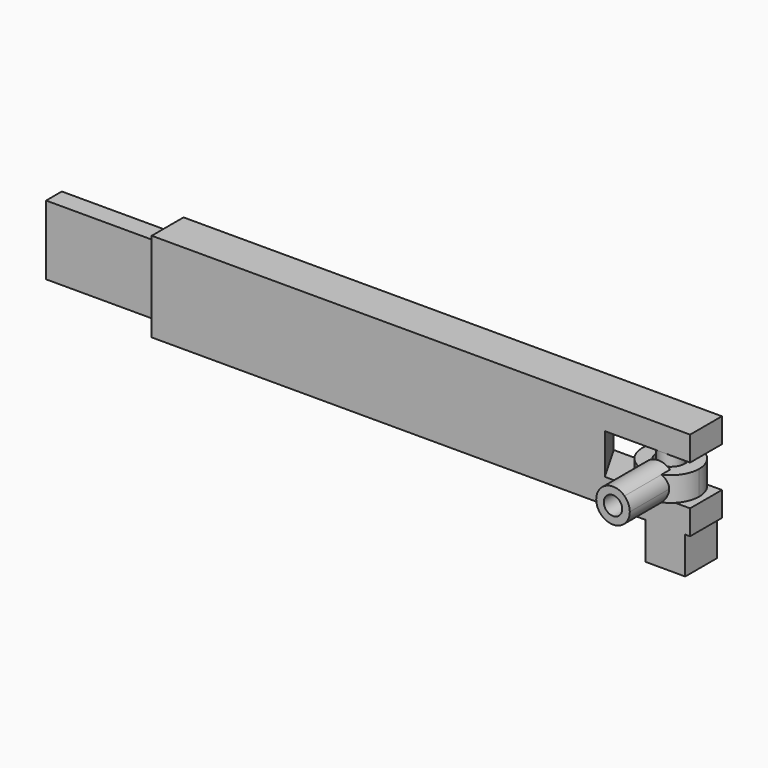
from build123d import *

# Parameters (mm, degrees)
F0_W      = 120.2900058
F0_H      = 8.89
F1_DEPTH  = 10
F2_W      = 4.39
F2_H      = 15.5
F3_DEPTH  = 25.4
F4_W      = 19.05
F4_H      = 9
F5_DEPTH  = 8.891
F6_R      = 2.54
F7_DEPTH  = 9
F9_R      = 3.175
F10_DEPTH = 5.46
F13_DEPTH = 12.7
F14_R     = 2.0625
F15_DEPTH = 10.16
F16_R     = 2.0625
F17_DEPTH = 4
F18_R     = 2.0625
F19_DEPTH = 8.267699999
F20_R     = 2.5
F20_R_2   = 2.0625
F21_DEPTH = 0.5
F23_DEPTH = 9


with BuildPart() as f1:
    # F0 (on Top) → F1 (new body, symmetric)
    with BuildSketch(Plane.XY):
        Rectangle(F0_W, F0_H)
    extrude(amount=F1_DEPTH, both=True)

    # F2 (on face) → F3 (join)
    with BuildSketch(Plane(origin=(-60.1450029, 0, 0), x_dir=(0, -1, 0), z_dir=(-1, 0, 0))):
        Rectangle(F2_W, F2_H)
    extrude(amount=F3_DEPTH)

    # F4 (on face) → F5 (cut, through all)
    with BuildSketch(Plane.XZ.offset(4.445)):
        with Locations((50.6200029, 0)):
            Rectangle(F4_W, F4_H)
    extrude(amount=-F5_DEPTH, mode=Mode.SUBTRACT)

    # F6 (on face) → F7 (join, through all)
    with BuildSketch(Plane.XY.offset(-4.5)):
        with Locations((53.7950029, -1.905)):
            Circle(F6_R)
    extrude(amount=F7_DEPTH)

    # F16 (on face) → F17 (cut)
    with BuildSketch(Plane(origin=(0, 0, -10), x_dir=(1, 0, 0), z_dir=(0, 0, -1))):
        with Locations((54.6134511488, 0)):
            Circle(F16_R)
    extrude(amount=-F17_DEPTH, mode=Mode.SUBTRACT)

    # F18 (on face) → F19 (join)
    with BuildSketch(Plane(origin=(0, 0, -10), x_dir=(1, 0, 0), z_dir=(0, 0, -1))):
        with BuildLine():
            ThreePointArc((54.6134511488, -4.445), (57.7565407912, -3.1430896424), (59.0584511488, 0))
            ThreePointArc((59.0584511488, 0), (57.7565407912, 3.1430896424), (54.6134511488, 4.445))
            ThreePointArc((54.6134511488, 4.445), (51.4703615087, 3.1430896446), (50.1684511488, 6.4e-09))
            ThreePointArc((50.1684511488, 6.4e-09), (51.4703615042, -3.1430896401), (54.6134511488, -4.445))
        make_face()
        with Locations((54.6134511488, 0)):
            Circle(F18_R, mode=Mode.SUBTRACT)
        with BuildLine():
            Line((59.0584511488, -4.445), (59.0584511488, 0))
            ThreePointArc((59.0584511488, 0), (57.7565407912, -3.1430896424), (54.6134511488, -4.445))
            Line((54.6134511488, -4.445), (59.0584511488, -4.445))
        make_face()
        with BuildLine():
            ThreePointArc((54.6134511488, 4.445), (57.7565407912, 3.1430896424), (59.0584511488, 0))
            Line((59.0584511488, 0), (59.0584511488, 4.445))
            Line((59.0584511488, 4.445), (54.6134511488, 4.445))
        make_face()
        with BuildLine():
            ThreePointArc((50.1684511488, 6.4e-09), (51.4703615087, 3.1430896446), (54.6134511488, 4.445))
            Line((54.6134511488, 4.445), (50.1684511488, 4.445))
            Line((50.1684511488, 4.445), (50.1684511488, 6.4e-09))
        make_face()
        with BuildLine():
            Line((50.1684511488, -4.445), (54.6134511488, -4.445))
            ThreePointArc((54.6134511488, -4.445), (51.4703615042, -3.1430896401), (50.1684511488, 6.4e-09))
            Line((50.1684511488, 6.4e-09), (50.1684511488, -4.445))
        make_face()
    extrude(amount=F19_DEPTH)

    # F20 (on face) → F21 (join)
    with BuildSketch(Plane(origin=(0, 0, -18.267699999), x_dir=(1, 0, 0), z_dir=(0, 0, -1))):
        with Locations((54.6134511488, 0)):
            Circle(F20_R)
        with Locations((54.6134511488, 0)):
            Circle(F20_R_2, mode=Mode.SUBTRACT)
    extrude(amount=F21_DEPTH)

    # F22 (on face) → F23 (cut)
    with BuildSketch(Plane(origin=(0, 0, 4.5), x_dir=(1, 0, 0), z_dir=(0, 0, -1))):
        Polygon((41.0950029, -4.445), (41.0950029, 4.445), (35.9623590069, -4.445), align=None)
    extrude(amount=F23_DEPTH, mode=Mode.SUBTRACT)


with BuildPart() as f10:
    # F9 (on offset) → F10 (new body)
    with BuildSketch(Plane.XY.offset(-3.23)):
        with BuildLine():
            ThreePointArc((53.7950029, 4.445), (49.3048748395, -6.3951280605), (60.1450029, -1.905))
            ThreePointArc((60.1450029, -1.905), (58.2851309605, 2.5851280605), (53.7950029, 4.445))
        make_face()
        with Locations((53.7950029, -1.905)):
            Circle(F9_R, mode=Mode.SUBTRACT)
    extrude(amount=F10_DEPTH)

    # F12 (on offset) → F13 (join)
    with BuildSketch(Plane.XZ.offset(5.334)):
        with BuildLine():
            ThreePointArc((51.2240886657, -3.23), (53.7950029, -4.25), (56.3659171343, -3.23))
            Line((56.3659171343, -3.23), (51.2240886657, -3.23))
        make_face()
        with BuildLine():
            Line((51.2240886657, -3.23), (56.3659171343, -3.23))
            ThreePointArc((56.3659171343, -3.23), (57.2376347696, -1.986871148), (57.5450029, -0.5))
            ThreePointArc((57.5450029, -0.5), (57.2376347696, 0.986871148), (56.3659171343, 2.23))
            Line((56.3659171343, 2.23), (51.2240886657, 2.23))
            ThreePointArc((51.2240886657, 2.23), (50.0450029, -0.5), (51.2240886657, -3.23))
        make_face()
        with BuildLine():
            ThreePointArc((56.3659171343, 2.23), (53.7950029, 3.25), (51.2240886657, 2.23))
            Line((51.2240886657, 2.23), (56.3659171343, 2.23))
        make_face()
    extrude(amount=F13_DEPTH)

    # F14 (on face) → F15 (cut)
    with BuildSketch(Plane.XZ.offset(18.034)):
        with Locations((53.7950029, -0.5)):
            Circle(F14_R)
    extrude(amount=-F15_DEPTH, mode=Mode.SUBTRACT)


solid = Compound([f1.part, f10.part])
